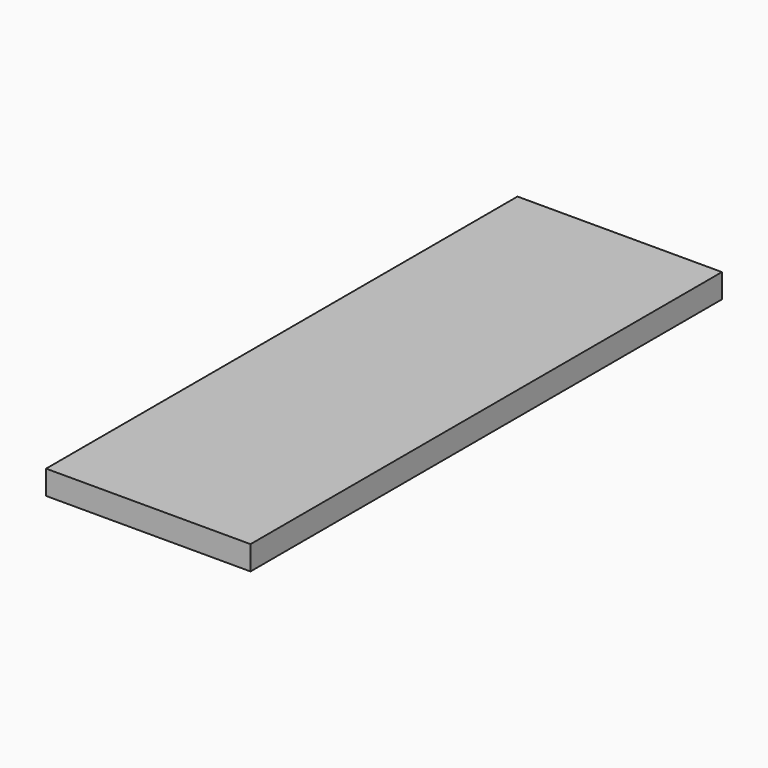
from build123d import *

# Parameters (mm, degrees)
PAD_DEPTH = 20


with BuildPart() as part:
    # Sketch → Pad (new body)
    with BuildSketch(Plane.XY):
        Polygon((0, 490), (170, 490), (170, 0), (0, 0), (0, 245), align=None)
    extrude(amount=PAD_DEPTH)


solid = part.part
